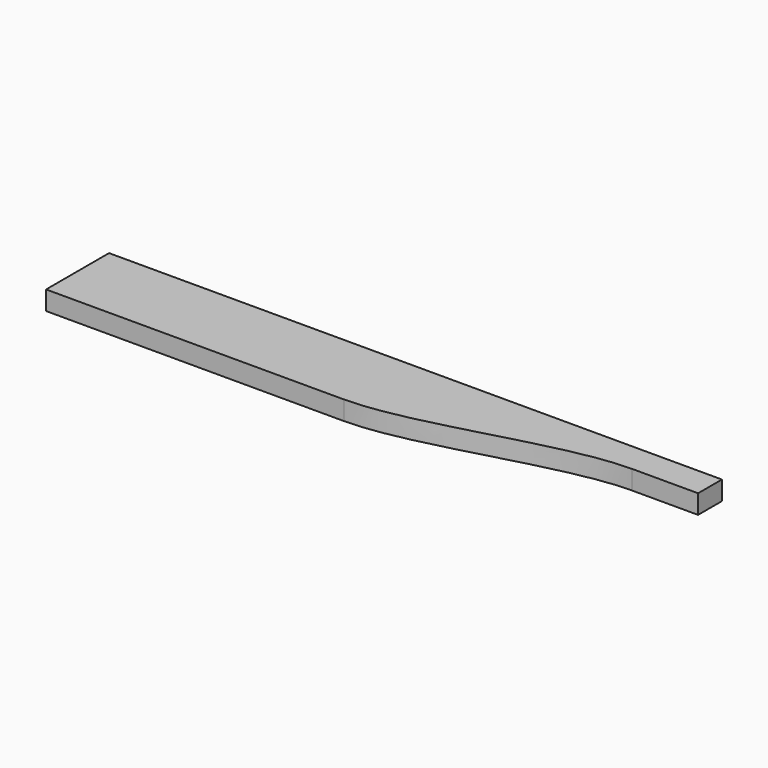
from build123d import *

# Parameters (mm, degrees)
F2_DEPTH = 23


with BuildPart() as f2:
    # F1 (on Top) → F2 (new body)
    with BuildSketch(Plane.XY):
        with BuildLine():
            Line((740, 95), (0, 95))
            Line((0, 95), (0, 0))
            Line((0, 0), (360, 0))
            add(Edge.make_bspline(
                [(660, 59), (576.14116, 59), (442.893575, 0), (360, 0)],
                knots=[0, 0, 0, 0, 305.746627, 305.746627, 305.746627, 305.746627], degree=3))
            Line((660, 59), (740, 59))
            Line((740, 59), (740, 95))
        make_face()
    extrude(amount=F2_DEPTH)


solid = f2.part
